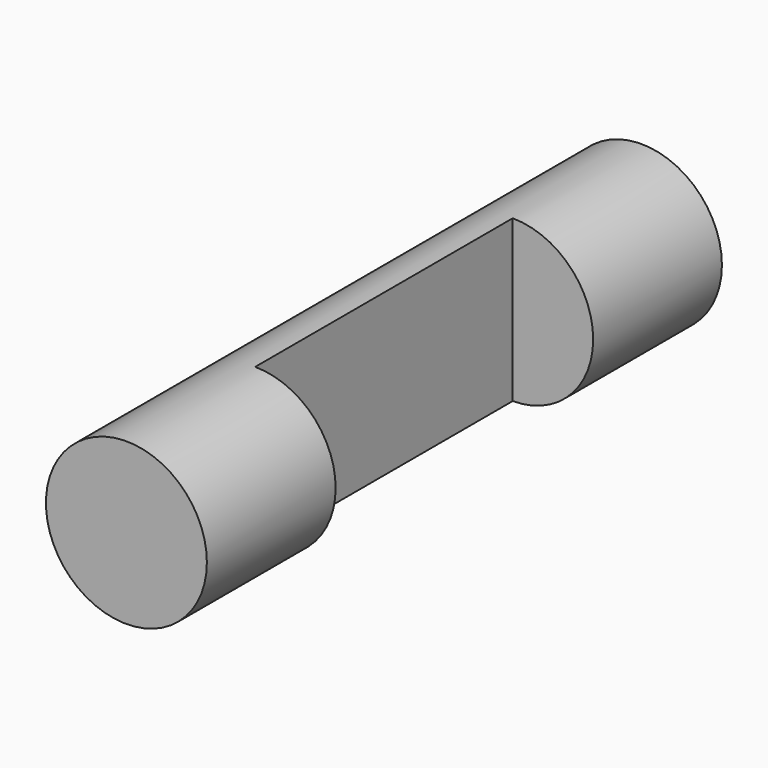
from build123d import *

# Parameters (mm, degrees)
F0_R     = 10
F1_DEPTH = 80
F3_W     = 40
F3_H     = 20
F4_DEPTH = 10


with BuildPart() as f1:
    # F0 (on Front) → F1 (new body)
    with BuildSketch(Plane.XZ):
        Circle(F0_R)
    extrude(amount=F1_DEPTH)

    # F3 (on offset) → F4 (cut)
    with BuildSketch(Plane.YZ.offset(10)):
        with Locations((-40, 0)):
            Rectangle(F3_W, F3_H)
    extrude(amount=-F4_DEPTH, mode=Mode.SUBTRACT)


solid = f1.part
